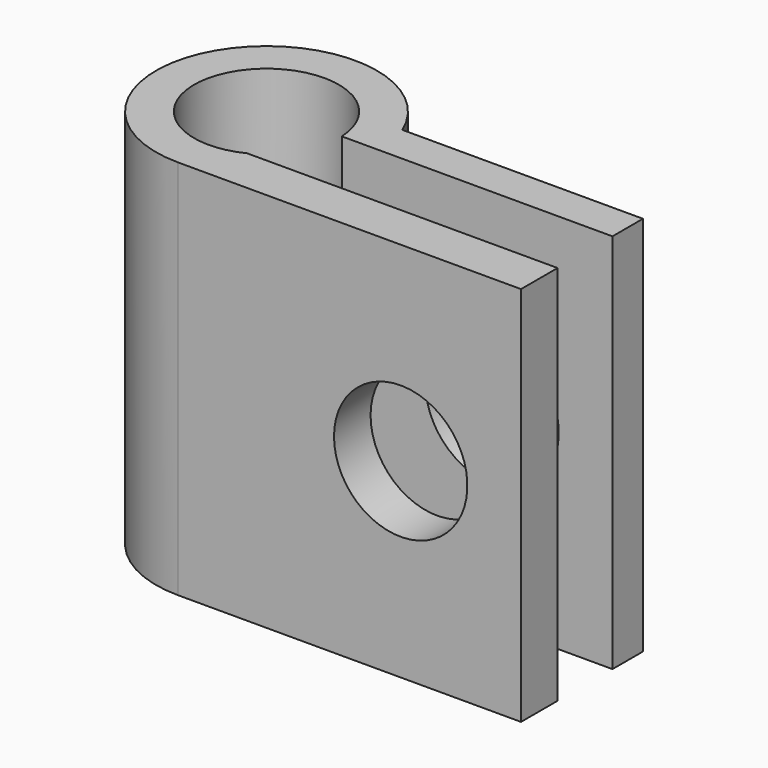
from build123d import *

# Parameters (mm, degrees)
F0_R     = 1.9
F1_DEPTH = 10
F2_W     = 8.151472
F2_H     = 1.8
F3_DEPTH = 25
F4_R     = 1.75
F5_DEPTH = 25


with BuildPart() as f1:
    # F0 (on Top) → F1 (new body)
    with BuildSketch(Plane.XY):
        with BuildLine():
            ThreePointArc((0, -2.9), (2.05061, -2.05061), (2.9, 0))
            ThreePointArc((2.9, 0), (2.845305, 0.560573), (2.683282, 1.1))
            ThreePointArc((2.683282, 1.1), (-2.408319, 1.615549), (0, -2.9))
        make_face()
        Circle(F0_R, mode=Mode.SUBTRACT)
        with BuildLine():
            ThreePointArc((2.683282, 1.1), (2.845305, 0.560573), (2.9, 0))
            ThreePointArc((2.9, 0), (2.05061, -2.05061), (0, -2.9))
            Line((0, -2.9), (9, -2.9))
            Line((9, -2.9), (9, 1.1))
            Line((9, 1.1), (2.683282, 1.1))
        make_face()
    extrude(amount=F1_DEPTH)

    # F2 (on face) → F3 (cut)
    with BuildSketch(Plane.XY.offset(10)):
        with Locations((4.924264, -0.8)):
            Rectangle(F2_W, F2_H)
    extrude(amount=-F3_DEPTH, mode=Mode.SUBTRACT)

    # F4 (on face) → F5 (cut)
    with BuildSketch(Plane(origin=(0, 1.1, 0), x_dir=(-1, 0, 0), z_dir=(0, 1, 0))):
        with Locations((-5.841641, 5)):
            Circle(F4_R)
    extrude(amount=-F5_DEPTH, mode=Mode.SUBTRACT)


solid = f1.part
